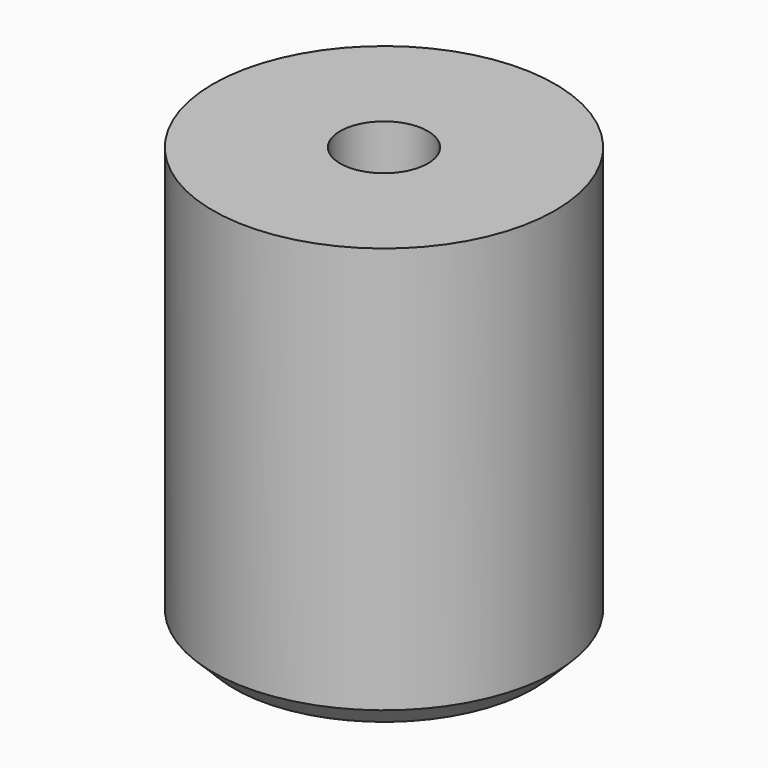
from build123d import *

# Parameters (mm, degrees)
SKETCH_R     = 4
SKETCH_R_2   = 1.025
PAD_DEPTH    = 10
CHAMFER_SIZE = 0.5


with BuildPart() as part:
    # Sketch (on XY_Plane of Origin) → Pad (new body)
    with BuildSketch(Plane.XY):
        Circle(SKETCH_R)
        Circle(SKETCH_R_2, mode=Mode.SUBTRACT)
    extrude(amount=PAD_DEPTH)

    # Chamfer
    chamfer_edges = [part.edges().sort_by_distance(p)[0] for p in [
        (-4, 0, 0),
    ]]
    chamfer(chamfer_edges, length=CHAMFER_SIZE)


solid = part.part
